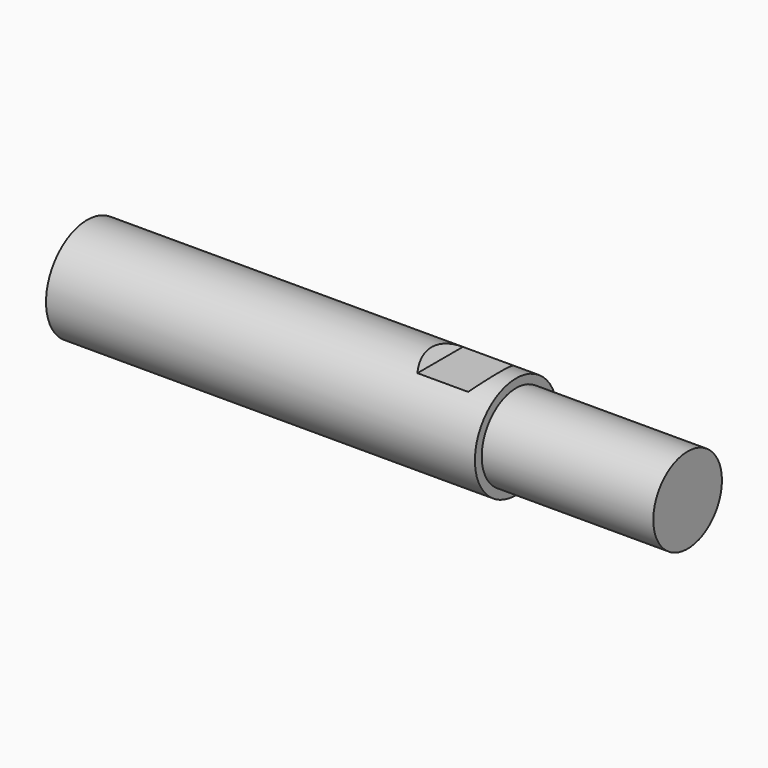
from build123d import *

# Parameters (mm, degrees)
F0_R     = 6
F1_DEPTH = 50
F2_R     = 5
F3_DEPTH = 20
F5_D     = 8.8
F5_DEPTH = 23.75
F5_TIP   = 2.6437867237
F7_DEPTH = 12.5


with BuildPart() as f1:
    # F0 (on Right) → F1 (new body)
    with BuildSketch(Plane.YZ):
        Circle(F0_R)
    extrude(amount=F1_DEPTH)

    # F2 (on face) → F3 (join)
    with BuildSketch(Plane.YZ.offset(50)):
        Circle(F2_R)
    extrude(amount=F3_DEPTH)

    # F5
    with Locations(Plane(origin=(0, 0, 0), x_dir=(0, -1, 0), z_dir=(-1, 0, 0))):
        with Locations((0, 0)):
            Hole(F5_D / 2, depth=F5_DEPTH)
            with Locations((0, 0, -(F5_DEPTH + F5_TIP / 2))):  # 118° drill point
                Cone(0, F5_D / 2, F5_TIP, mode=Mode.SUBTRACT)

    # F6 (on Front) → F7 (cut, symmetric)
    with BuildSketch(Plane.XZ):
        Polygon((48.107624054, 13), (40.107624054, 13), (40.107624054, 6.0437973492), (41.1514214032, 5), (47.0638267048, 5), (48.107624054, 6.0437973492), align=None)
        Polygon((47.0638267048, -5), (41.1514214032, -5), (40.107624054, -6.0437973492), (40.107624054, -13), (48.107624054, -13), (48.107624054, -6.0437973492), align=None)
    extrude(amount=F7_DEPTH, both=True, mode=Mode.SUBTRACT)


solid = f1.part
